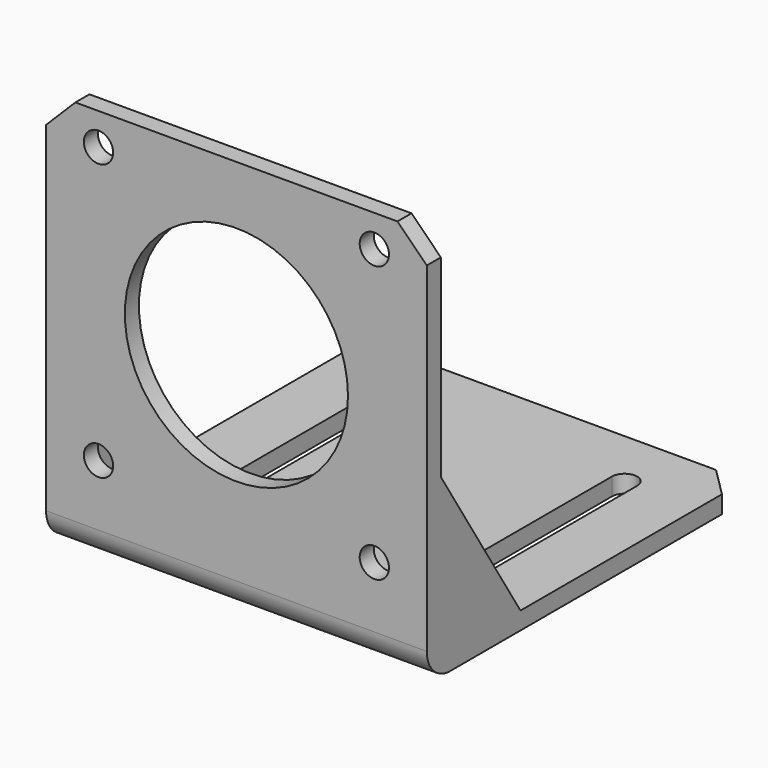
from build123d import *

# Parameters (mm, degrees)
F1_DEPTH  = 32.5
F2_R      = 5
F3_R      = 2
F4_R      = 19.05
F4_R_2    = 2.5
F5_DEPTH  = 68.001
F7_DEPTH  = 68.001
F9_DEPTH  = 3
F11_DEPTH = 3
F12_SIZE  = 5


with BuildPart() as f1:
    # F0 (on Right) → F1 (new body, symmetric)
    with BuildSketch(Plane.YZ):
        Polygon((0, 68), (0, 0), (68, 0), (68, 3), (3, 3), (3, 68), align=None)
    extrude(amount=F1_DEPTH, both=True)

    # F2
    f2_edges = [f1.edges().sort_by_distance(p)[0] for p in [
        (0, 0, 0),
    ]]
    fillet(f2_edges, radius=F2_R)

    # F3
    f3_edges = [f1.edges().sort_by_distance(p)[0] for p in [
        (0, 3, 3),
    ]]
    fillet(f3_edges, radius=F3_R)

    # F4 (on face) → F5 (cut, through all)
    with BuildSketch(Plane.XZ):
        with Locations((0, 39)):
            Circle(F4_R)
        with Locations((-23.55, 15.45)):
            Circle(F4_R_2)
        with Locations((23.55, 15.45)):
            Circle(F4_R_2)
        with Locations((23.55, 62.55)):
            Circle(F4_R_2)
        with Locations((-23.55, 62.55)):
            Circle(F4_R_2)
    extrude(amount=-F5_DEPTH, mode=Mode.SUBTRACT)

    # F6 (on face) → F7 (cut, through all)
    with BuildSketch(Plane(origin=(0, 0, 0), x_dir=(1, 0, 0), z_dir=(0, 0, -1))):
        with BuildLine():
            ThreePointArc((-22.15, -57.85), (-20, -60), (-17.85, -57.85))
            Line((-17.85, -57.85), (-17.85, -16.15))
            ThreePointArc((-17.85, -16.15), (-20, -14), (-22.15, -16.15))
            Line((-22.15, -16.15), (-22.15, -57.85))
        make_face()
        with BuildLine():
            ThreePointArc((17.85, -57.85), (20, -60), (22.15, -57.85))
            Line((22.15, -57.85), (22.15, -16.15))
            ThreePointArc((22.15, -16.15), (20, -14), (17.85, -16.15))
            Line((17.85, -16.15), (17.85, -57.85))
        make_face()
    extrude(amount=-F7_DEPTH, mode=Mode.SUBTRACT)

    # F8 (on face) → F9 (join)
    with BuildSketch(Plane.YZ.offset(32.5)):
        with BuildLine():
            Line((3, 30), (3, 5))
            ThreePointArc((3, 5), (3.585786, 3.585786), (5, 3))
            Line((5, 3), (20, 3))
            Line((20, 3), (3, 30))
        make_face()
    extrude(amount=-F9_DEPTH)

    # F10 (on face) → F11 (join)
    with BuildSketch(Plane(origin=(-32.5, 0, 0), x_dir=(0, -1, 0), z_dir=(-1, 0, 0))):
        with BuildLine():
            Line((-3, 5), (-3, 30))
            Line((-3, 30), (-20, 3))
            Line((-20, 3), (-5, 3))
            ThreePointArc((-5, 3), (-3.585786, 3.585786), (-3, 5))
        make_face()
    extrude(amount=-F11_DEPTH)

    # F12
    f12_edges = [f1.edges().sort_by_distance(p)[0] for p in [
        (32.5, 1.5, 68),
        (32.5, 68, 1.5),
        (-32.5, 68, 1.5),
        (-32.5, 1.5, 68),
    ]]
    chamfer(f12_edges, length=F12_SIZE)


solid = f1.part
